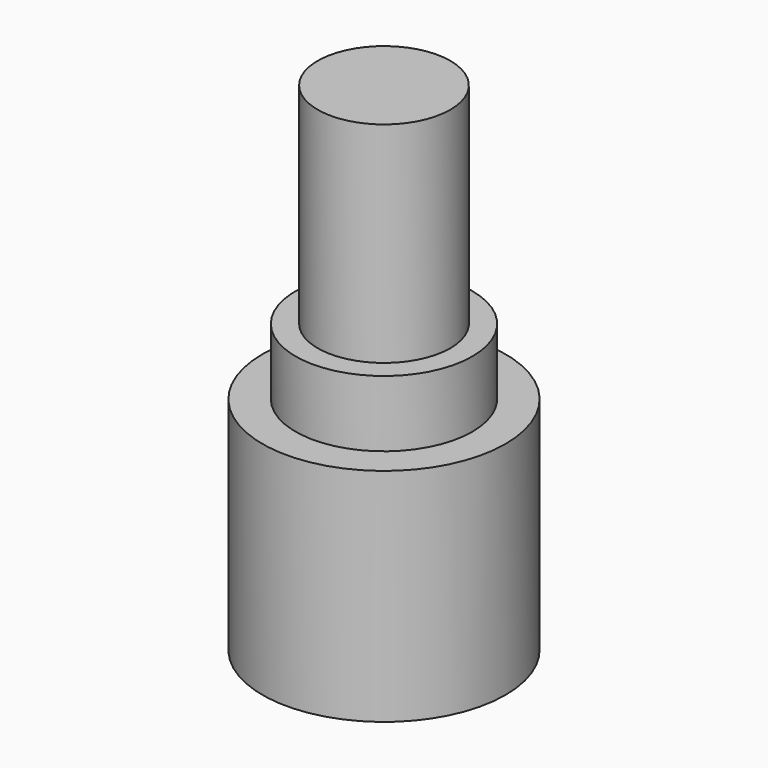
from build123d import *

# Parameters (mm, degrees)
F0_R     = 6
F1_DEPTH = 45
F0_R_2   = 8
F2_DEPTH = 26
F0_R_3   = 11
F3_DEPTH = 20


with BuildPart() as f1:
    # F0 (on Top) → F1 (new body)
    with BuildSketch(Plane.XY):
        with Locations((-35.2753475308, -8.006202057)):
            Circle(F0_R)
    extrude(amount=F1_DEPTH)

    # F0 (on Top) → F2 (join)
    with BuildSketch(Plane.XY):
        with Locations((-35.2753475308, -8.006202057)):
            Circle(F0_R_2)
        with Locations((-35.2753475308, -8.006202057)):
            Circle(F0_R, mode=Mode.SUBTRACT)
    extrude(amount=F2_DEPTH)

    # F0 (on Top) → F3 (join)
    with BuildSketch(Plane.XY):
        with Locations((-35.2753475308, -8.006202057)):
            Circle(F0_R_3)
        with Locations((-35.2753475308, -8.006202057)):
            Circle(F0_R_2, mode=Mode.SUBTRACT)
    extrude(amount=F3_DEPTH)


solid = f1.part
